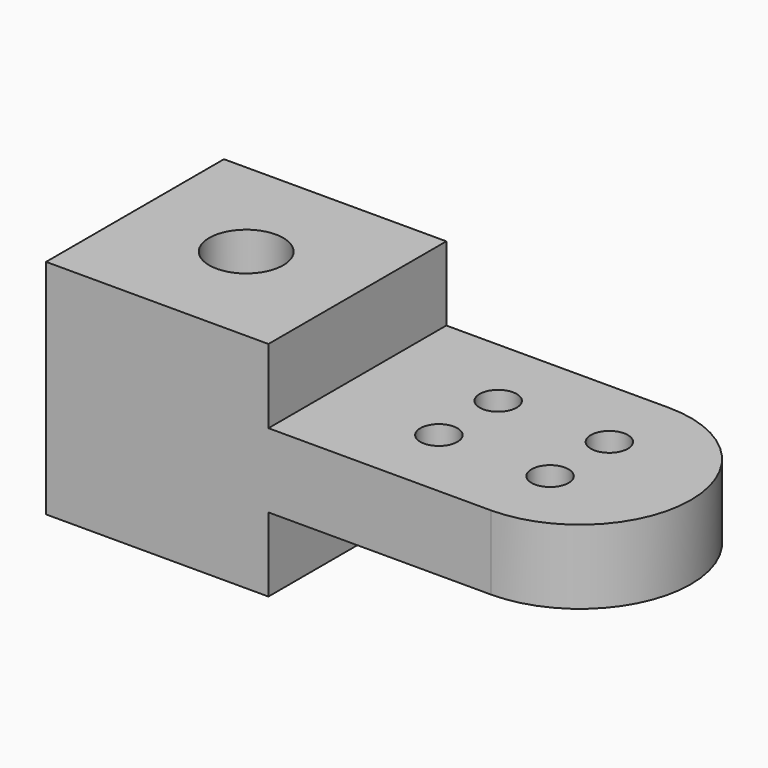
from build123d import *

# Parameters (mm, degrees)
F0_W     = 38.1
F0_H     = 38.1
F1_DEPTH = 19.05
F2_DEPTH = 6.35
F4_D     = 6.35
F5_D     = 12.7


with BuildPart() as f1:
    # F0 (on Top) → F1 (new body, symmetric)
    with BuildSketch(Plane.XY):
        with Locations((19.05, 19.05)):
            Rectangle(F0_W, F0_H)
    extrude(amount=F1_DEPTH, both=True)

    # F0 (on Top) → F2 (join, symmetric)
    with BuildSketch(Plane.XY):
        with BuildLine():
            Line((38.1, 38.1), (38.1, 0))
            Line((38.1, 0), (76.2, 0))
            ThreePointArc((76.2, 0), (95.25, 19.05), (76.2, 38.1))
            Line((76.2, 38.1), (38.1, 38.1))
        make_face()
    extrude(amount=F2_DEPTH, both=True)

    # F4 (through all)
    with Locations(Plane.XY.offset(19.05)):
        with Locations((57.15, 25.4), (57.15, 12.7), (76.2, 12.7), (76.2, 25.4)):
            Hole(F4_D / 2)

    # F5 (through all)
    with Locations(Plane.XY.offset(19.05)):
        with Locations((19.05, 19.05)):
            Hole(F5_D / 2)


solid = f1.part
